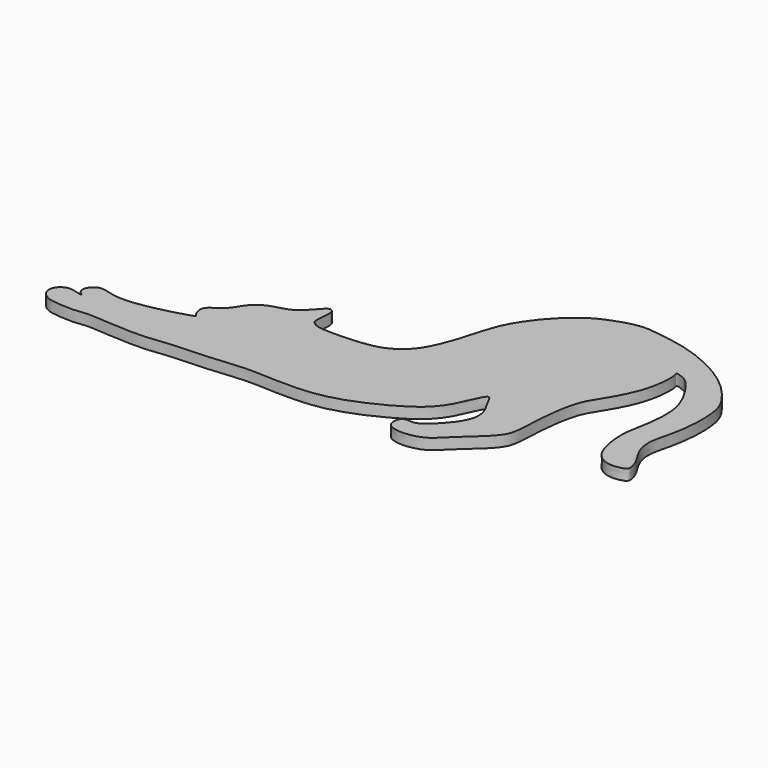
from build123d import *

# Parameters (mm, degrees)
F1_DEPTH = 5
F3_SCALE = 1.3


with BuildPart() as f1:
    # F0 (on Top) → F1 (new body)
    with BuildSketch(Plane.XY):
        with BuildLine():
            add(Edge.make_bspline(
                [(82.1878982562, 97.2080777277), (85.2535707912, 96.681170848), (96.0461967316, 94.3510932872), (115.4346724584, 85.4303711863), (127.4736108035, 71.1169598935), (129.9088620349, 63.7198763613), (130.5728227481, 53.0299586305), (128.8170163975, 39.9524180147), (125.8467975076, 30.740029744), (127.1442266543, 22.4433508521), (132.198722728, 15.4036811948), (133.2363367627, 11.7682502129), (133.7700485307, 8.8631558529), (130.4338392737, 7.6593557444), (125.4854706082, 7.0625867111), (120.1584224586, 9.6263729076), (116.2974115932, 15.3808224041), (114.1882640811, 28.705093461), (116.7354234454, 38.5998669226), (118.5100444536, 54.5504949847), (113.9946289257, 65.9674021051), (107.1041424612, 75.6484391055), (103.4083393292, 77.2880334778), (100.0903761449, 78.3286562075), (101.4752766568, 76.1312120081), (100.8756735869, 61.8114168283), (92.4180326251, 46.5696468829), (86.4466792308, 38.1203929953), (83.9998165164, 20.494345088), (83.9530296574, 6.7027883176), (81.8616887972, 1.651627289), (76.9029444993, -3.8473261554), (71.2393089346, -8.3160861124), (64.4504104311, -15.6347737558), (59.8475297852, -18.5787099455), (53.6346533795, -19.958306553), (48.1348658686, -19.6089033963), (43.959253571, -17.3863319973), (44.3014064733, -12.074597647), (46.9940882382, -10.6962576447), (49.3712052965, -11.2141903126), (53.198003998, -10.8181418813), (60.5212726534, -3.4671304122), (65.6269453001, 4.0014958302), (65.5700692913, 11.5714731665), (61.2420971961, 17.6886329062), (58.5637893837, 24.6848228467), (52.6594962608, 6.0243553014), (41.0391212729, -3.3284621525), (24.0882143061, -12.0460327477), (6.5411178534, -17.0270343417), (-13.864494882, -16.1339922929), (-25.1923763334, -15.7545568105), (-38.7380743368, -17.6165162938), (-57.4923248116, -17.8677219768), (-68.2921279909, -20.0410313105), (-88.8708868018, -18.5389917462), (-94.6020838814, -18.1917702885), (-99.8506830145, -19.2005332389), (-107.8310234691, -18.7257821244), (-113.4142064624, -17.898608915), (-117.524199658, -13.8333227623), (-116.5201696964, -8.7043213498), (-112.0438254315, -6.3832097351), (-109.2017625636, -7.2086289128), (-103.915104359, -8.5943650569), (-107.3017127711, -6.561608368), (-108.0318373251, -3.6089672137), (-104.5773914965, 0.984600863), (-99.4714095768, 0.0004942875), (-95.284800539, -1.4831040202), (-85.3322698588, -1.5527967065), (-69.8443852317, 2.1356544145), (-62.0164371544, 4.7116041488), (-63.3709866951, 5.1074775799), (-65.1239876698, 9.1450657482), (-64.4351221021, 11.296759065), (-62.8632272844, 13.2880617507), (-56.6932469649, 16.4377749249), (-54.3051393689, 22.4591969419), (-52.2076115012, 24.2570750415)],
                knots=[0.0111291323, 0.0111291323, 0.0111291323, 0.0111291323, 0.0206887804, 0.0441041096, 0.0634739551, 0.075913936, 0.0907354378, 0.1075634765, 0.1217566409, 0.1348408546, 0.1482083005, 0.1571717755, 0.1641654691, 0.1720456948, 0.1823365015, 0.1930626188, 0.2049517619, 0.2214316797, 0.2364735786, 0.2544736457, 0.270857758, 0.2862524177, 0.2956887416, 0.3027699332, 0.3078379397, 0.3248586751, 0.3443117381, 0.3590330214, 0.3783463615, 0.3953600207, 0.4057720224, 0.4178756403, 0.430560453, 0.4449279991, 0.4556782415, 0.4670527406, 0.4778758745, 0.4872098198, 0.4968775388, 0.5042342796, 0.5111377222, 0.5196660808, 0.5343083106, 0.5482373396, 0.5602858272, 0.5732725427, 0.5821004472, 0.5995826935, 0.6181849183, 0.6378852522, 0.6577386952, 0.6782638981, 0.6936481442, 0.7106265667, 0.7302212915, 0.7462430504, 0.7667382458, 0.7777623777, 0.7880719782, 0.8010697677, 0.8120315897, 0.8223337957, 0.8320648902, 0.8416565849, 0.8502119137, 0.8588116117, 0.8654090035, 0.8732585258, 0.8834088539, 0.8933000714, 0.902843448, 0.9171102699, 0.936421187, 0.94785611, 0.951196262, 0.9606348118, 0.9674488608, 0.9743835894, 0.9861941892, 1, 1, 1, 1], degree=3))
            add(Edge.make_bspline(
                [(80.3064799799, 97.5150365549), (81.2568522795, 97.3565010764), (82.0496835772, 97.2335947629), (82.1669337019, 97.211410748), (82.1878982562, 97.2080777277)],
                knots=[0.9757614236, 0.9757614236, 0.9757614236, 0.9757614236, 0.9956873551, 1, 1, 1, 1], degree=3))
            add(Edge.make_bspline(
                [(71.6490074992, 98.6459031701), (74.5204483201, 98.3062642052), (77.3897384868, 97.9668796235), (80.3064799799, 97.5150365549)],
                knots=[0, 0, 0, 0, 0.0091657281, 0.0091657281, 0.0091657281, 0.0091657281], degree=3))
            add(Edge.make_bspline(
                [(-52.2076115012, 24.2570750415), (-51.0599293596, 25.2026687234), (-48.5567545717, 27.2650744875), (-42.2298540916, 28.8067036169), (-37.4789954548, 30.470966849), (-34.1996721489, 33.6100892802), (-31.0689086805, 37.3402878463), (-28.7638094479, 39.5369489488), (-26.9755363544, 38.850127644), (-26.4518047487, 37.3904223183), (-26.2257042055, 35.5430108792), (-27.1561699455, 28.6680122414), (-26.0014733882, 27.3327247144), (-24.6176335469, 26.2102855353), (-20.5727467086, 24.8228519146), (-3.5346877633, 25.3176511593), (6.0789920848, 27.2529034465), (13.3204816249, 32.0183149925), (18.217420341, 38.7190034025), (22.9522703096, 51.1396333948), (26.5345122906, 65.9512172331), (31.2216110872, 73.9390890719), (36.8527292699, 81.8541434709), (44.6113893535, 89.0751607421), (51.1161185794, 93.7265180598), (62.8343618952, 98.1369439484), (68.5457787634, 98.8088837486), (71.6490074992, 98.6459031701)],
                knots=[0, 0, 0, 0, 0.0317787136, 0.0693112294, 0.1023388723, 0.1335105079, 0.1666411316, 0.1917381142, 0.2097692264, 0.2268541199, 0.2478725859, 0.2862133215, 0.3049309201, 0.3229959955, 0.3523723658, 0.4132379163, 0.4609087706, 0.5025429778, 0.5443668109, 0.5984971221, 0.656330511, 0.7009696811, 0.7467781321, 0.7943380028, 0.8366183355, 0.8879371826, 0.9321302724, 0.9321302724, 0.9321302724, 0.9321302724], degree=3))
        make_face()
    extrude(amount=F1_DEPTH)


with BuildPart() as f1_1:
    # F3: moved
    add(f1.part.scale(F3_SCALE).moved(Location((21.2390474975, -5.2564445883, -1.5))))


solid = f1_1.part
